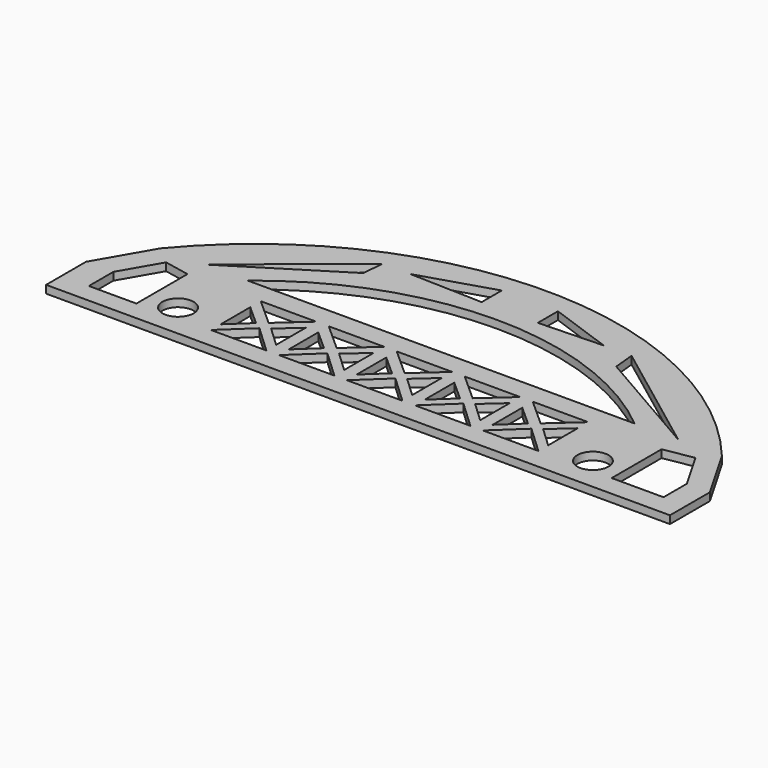
from build123d import *

# Parameters (mm, degrees)
F0_R     = 5
F1_DEPTH = 2.5


with BuildPart() as f1:
    # F0 (on Top) → F1 (new body)
    with BuildSketch(Plane.XY):
        with BuildLine():
            Line((-97.14, -17.320508), (-97.14, -33.320508))
            Line((-97.14, -33.320508), (-63.639122, -33.320508))
            Line((-63.639122, -33.320508), (69.360878, -33.320508))
            Line((69.360878, -33.320508), (102.861755, -33.320508))
            Line((102.861755, -33.320508), (102.861755, -17.320001))
            Line((102.861755, -17.320001), (92.860878, 0))
            ThreePointArc((92.860878, 0), (2.860439, 42.320725), (-87.14, 0))
            Line((-87.14, 0), (-97.14, -17.320508))
        make_face()
        Polygon((-88.377581, -17.320508), (-81.28519, -5.036127), (-73.14, -6.674613), (-73.14, -27.124608), (-88.377581, -27.124608), align=None, mode=Mode.SUBTRACT)
        with Locations((-63.639122, -22.320508)):
            Circle(F0_R, mode=Mode.SUBTRACT)
        Polygon((-31.839122, -26.674613), (-49.639122, -26.674613), (-40.739122, -18.327324), align=None, mode=Mode.SUBTRACT)
        Polygon((-49.639122, -10.879502), (-43.163221, -16.674613), (-49.639122, -22.748346), align=None, mode=Mode.SUBTRACT)
        Polygon((-31.839122, -22.748346), (-38.315108, -16.674533), (-31.839122, -10.879346), align=None, mode=Mode.SUBTRACT)
        Polygon((-27.839122, -10.879502), (-21.363221, -16.674613), (-27.839122, -22.748346), align=None, mode=Mode.SUBTRACT)
        Polygon((-10.039122, -26.674613), (-27.839122, -26.674613), (-18.939122, -18.327324), align=None, mode=Mode.SUBTRACT)
        Polygon((11.760878, -26.674613), (-6.039122, -26.674613), (2.860878, -18.327324), align=None, mode=Mode.SUBTRACT)
        Polygon((-10.039122, -22.748346), (-16.515108, -16.674533), (-10.039122, -10.879346), align=None, mode=Mode.SUBTRACT)
        Polygon((-6.039122, -10.879502), (0.436779, -16.674613), (-6.039122, -22.748346), align=None, mode=Mode.SUBTRACT)
        Polygon((-40.739122, -14.638986), (-49.639122, -6.674613), (-31.839122, -6.674613), align=None, mode=Mode.SUBTRACT)
        Polygon((-27.839122, -6.674613), (-10.039122, -6.674613), (-18.939122, -14.638986), align=None, mode=Mode.SUBTRACT)
        Polygon((33.560878, -26.674613), (15.760878, -26.674613), (24.660878, -18.327324), align=None, mode=Mode.SUBTRACT)
        Polygon((11.760878, -22.748346), (5.284892, -16.674533), (11.760878, -10.879346), align=None, mode=Mode.SUBTRACT)
        Polygon((15.760878, -10.879502), (22.236779, -16.674613), (15.760878, -22.748346), align=None, mode=Mode.SUBTRACT)
        Polygon((55.360878, -26.674613), (37.560878, -26.674613), (46.460878, -18.327324), align=None, mode=Mode.SUBTRACT)
        Polygon((33.560878, -22.748346), (27.084892, -16.674533), (33.560878, -10.879346), align=None, mode=Mode.SUBTRACT)
        Polygon((37.560878, -10.879502), (44.036779, -16.674613), (37.560878, -22.748346), align=None, mode=Mode.SUBTRACT)
        Polygon((55.360878, -22.748346), (48.884892, -16.674533), (55.360878, -10.879346), align=None, mode=Mode.SUBTRACT)
        with Locations((69.360878, -22.320508)):
            Circle(F0_R, mode=Mode.SUBTRACT)
        Polygon((88.384643, -5.036127), (95.477571, -17.320001), (95.477571, -26.674613), (78.860878, -26.674613), (78.860878, -6.674613), align=None, mode=Mode.SUBTRACT)
        Polygon((-6.039122, -6.674613), (11.760878, -6.674613), (2.860878, -14.638986), align=None, mode=Mode.SUBTRACT)
        Polygon((15.760878, -6.674613), (33.560878, -6.674613), (24.660878, -14.638986), align=None, mode=Mode.SUBTRACT)
        Polygon((37.560878, -6.674613), (55.360878, -6.674613), (46.460878, -14.638986), align=None, mode=Mode.SUBTRACT)
        Polygon((-38.47, 28.201407), (-39.14, 21.242104), (-73.14, 0), align=None, mode=Mode.SUBTRACT)
        with BuildLine():
            ThreePointArc((-59.14, 0), (2.860439, 22.360707), (64.860878, 0))
            Line((64.860878, 0), (0, 0))
            Line((0, 0), (-59.14, 0))
        make_face(mode=Mode.SUBTRACT)
        Polygon((-29.57, 28.201407), (-6.139122, 35.526987), (-6.139122, 27.468849), align=None, mode=Mode.SUBTRACT)
        Polygon((78.860878, 0), (42.000439, 21.242104), (41.330439, 28.201407), align=None, mode=Mode.SUBTRACT)
        Polygon((11.860878, 27.468849), (11.860878, 35.526987), (32.430439, 28.201407), align=None, mode=Mode.SUBTRACT)
    extrude(amount=F1_DEPTH)


solid = f1.part
